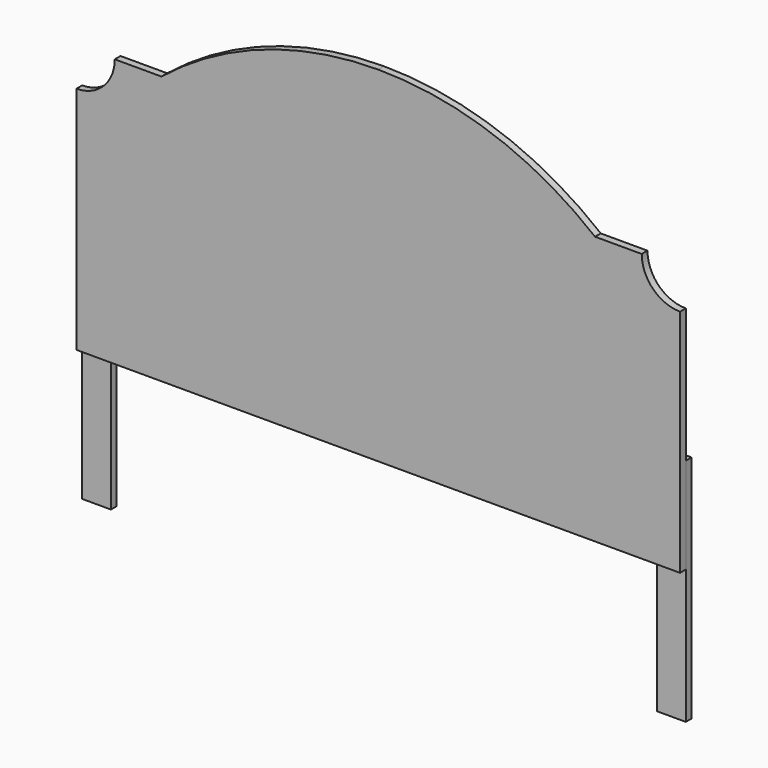
from build123d import *

# Parameters (mm, degrees)
F1_DEPTH = 19.05
F2_W     = 76.2
F2_H     = 609.6
F3_DEPTH = 19.05


with BuildPart() as f1:
    # F0 (on Front) → F1 (new body)
    with BuildSketch(Plane.XZ):
        with BuildLine():
            Line((-800.1, 0), (0, 0))
            Line((0, 0), (800.1, 0))
            Line((800.1, 0), (800.1, 609.6))
            ThreePointArc((800.1, 609.6), (728.257951, 639.357951), (698.5, 711.2))
            Line((698.5, 711.2), (574.736392, 711.2))
            ThreePointArc((574.736392, 711.2), (304.8, 862.104588), (0, 914.4))
            ThreePointArc((0, 914.4), (-304.8, 862.104588), (-574.736392, 711.2))
            Line((-574.736392, 711.2), (-698.5, 711.2))
            ThreePointArc((-698.5, 711.2), (-728.257951, 639.357951), (-800.1, 609.6))
            Line((-800.1, 609.6), (-800.1, 0))
        make_face()
    extrude(amount=F1_DEPTH)


with BuildPart() as f3:
    # F2 (on face) → F3 (new body)
    with BuildSketch(Plane(origin=(0, 0, 0), x_dir=(-1, 0, 0), z_dir=(0, 1, 0))):
        with Locations((-762, -50.8)):
            Rectangle(F2_W, F2_H)
    extrude(amount=F3_DEPTH)


with BuildPart() as f4_1:
    # F4: instance of F3
    add(f3.part.mirror(Plane.YZ))


solid = Compound([f1.part, f3.part, f4_1.part])
